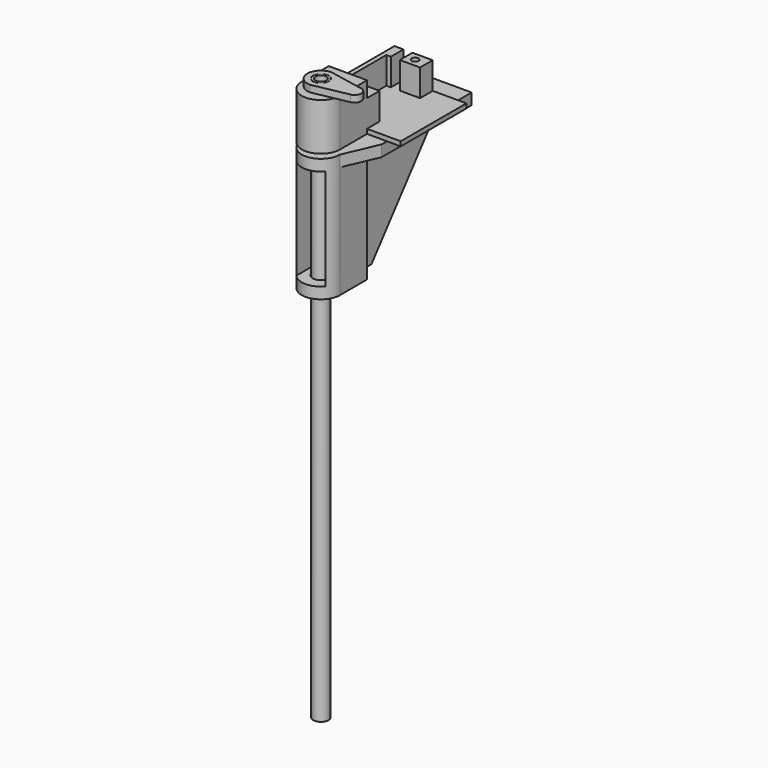
from build123d import *

# Parameters (mm, degrees)
SKETCH_R          = 1.55
PAD_DEPTH         = 12
SKETCH001_W       = 32
SKETCH001_H       = 36.5
PAD001_DEPTH      = 2
SKETCH002_W       = 4
SKETCH002_H       = 7
POCKET_DEPTH      = 12
SKETCH004_R       = 4
PAD002_DEPTH      = 19
PAD002_DEPTH_BACK = 2
SKETCH005_R       = 3.4
SKETCH005_R_2     = 2.4
PAD003_DEPTH      = 250
SKETCH006_R       = 3.5
PAD004_DEPTH      = 3
SKETCH007_R       = 3.65
PAD005_DEPTH      = 55
SKETCH008_R       = 1.5
SKETCH008_R_2     = 3.7
PAD006_DEPTH      = 5
PAD007_DEPTH      = 2.5
SKETCH010_W       = 40
SKETCH010_H       = 45
POCKET001_DEPTH   = 6.5
CHAMFER_SIZE      = 5.99


with BuildPart() as body:
    # Sketch → Pad (new body)
    with BuildSketch(Plane.XY):
        Polygon((0, 0), (17, 0), (17, 7), (2, 7), (2, 29.5), (17, 29.5), (17, 36.5), (0, 36.5), align=None)
        with Locations((12, 33)):
            Circle(SKETCH_R, mode=Mode.SUBTRACT)
        with Locations((12, 3.5)):
            Circle(SKETCH_R, mode=Mode.SUBTRACT)
    extrude(amount=PAD_DEPTH)

    # Sketch001 → Pad001 (join)
    with BuildSketch(Plane.XY):
        with Locations((16, 18.25)):
            Rectangle(SKETCH001_W, SKETCH001_H)
    extrude(amount=-PAD001_DEPTH)

    # Sketch002 (on DatumPlane) → Pocket (cut)
    with BuildSketch(Plane.XY.offset(12)):
        with Locations((6, 33)):
            Rectangle(SKETCH002_W, SKETCH002_H)
    extrude(amount=-POCKET_DEPTH, mode=Mode.SUBTRACT)

    # Sketch004 → Pad002 (join, two sides)
    with BuildSketch(Plane.XY) as pad002_sk:
        with BuildLine():
            ThreePointArc((0, -15), (8.5, -23.5), (17, -15))
            Line((17, -15), (17, 0))
            Line((17, 0), (0, 0))
            Line((0, 0), (0, -15))
        make_face()
        with Locations((8.5, -15)):
            Circle(SKETCH004_R, mode=Mode.SUBTRACT)
    extrude(amount=PAD002_DEPTH)
    extrude(pad002_sk.sketch, amount=-PAD002_DEPTH_BACK)


with BuildPart() as obj1:
    # Sketch005 → Pad003 (new body)
    with BuildSketch(Plane.XY):
        Circle(SKETCH005_R)
        Circle(SKETCH005_R_2, mode=Mode.SUBTRACT)
    extrude(amount=PAD003_DEPTH)


with BuildPart() as obj1_1:
    # Body001 placement: moved
    add(obj1.part.moved(Location((8.5, -15, -227))))


with BuildPart() as obj2:
    # Sketch006 → Pad004 (new body)
    with BuildSketch(Plane.XY):
        with BuildLine():
            ThreePointArc((0, 6), (-6, 0), (0, -6))
            Line((0, -6), (15.577552, -2.943881))
            ThreePointArc((15.577552, -2.943881), (18, 0), (15.577552, 2.943881))
            Line((0, 6), (15.577552, 2.943881))
        make_face()
        Circle(SKETCH006_R, mode=Mode.SUBTRACT)
    extrude(amount=PAD004_DEPTH)


with BuildPart() as obj2_1:
    # Body002 placement: moved
    add(obj2.part.moved(Location((8.5, -15, 20))))


with BuildPart() as obj3:
    # Sketch007 → Pad005 (new body)
    with BuildSketch(Plane.XY):
        with BuildLine():
            ThreePointArc((0, -15), (8.5, -23.5), (17, -15))
            Line((17, 0), (17, -15))
            Line((0, 0), (17, 0))
            Line((0, -15), (0, 0))
        make_face()
        with Locations((8.5, -15)):
            Circle(SKETCH007_R, mode=Mode.SUBTRACT)
    extrude(amount=-PAD005_DEPTH)

    # Sketch008 → Pad006 (join)
    with BuildSketch(Plane.XY):
        with BuildLine():
            Line((23.5, 0), (23.5, 50))
            Line((23.5, 50), (-6.5, 50))
            Line((-6.5, 50), (-6.5, 0))
            Line((0, -15), (-6.5, 0))
            ThreePointArc((0, -15), (8.5, -23.5), (17, -15))
            Line((17, -15), (23.5, 0))
        make_face()
        with Locations((17.5, 12)):
            Circle(SKETCH008_R, mode=Mode.SUBTRACT)
        with Locations((17.5, 38)):
            Circle(SKETCH008_R, mode=Mode.SUBTRACT)
        with Locations((-1.694422, 38)):
            Circle(SKETCH008_R, mode=Mode.SUBTRACT)
        with Locations((-1.694422, 12)):
            Circle(SKETCH008_R, mode=Mode.SUBTRACT)
        with Locations((8.5, -15)):
            Circle(SKETCH008_R_2, mode=Mode.SUBTRACT)
    extrude(amount=-PAD006_DEPTH)

    # Sketch009 (on DatumPlane) → Pad007 (join, symmetric)
    with BuildSketch(Plane(origin=(8.5, 0, 1), x_dir=(0, 1, 0), z_dir=(1, 0, 0))):
        Polygon((0, -56), (0, -6), (50, -6), (10, -56), align=None)
    extrude(amount=PAD007_DEPTH, both=True)

    # Sketch010 (on DatumPlane) → Pocket001 (cut, symmetric)
    with BuildSketch(Plane(origin=(8.5, 0, 1), x_dir=(0, 1, 0), z_dir=(1, 0, 0))):
        with Locations((-22, -28.5)):
            Rectangle(SKETCH010_W, SKETCH010_H)
    extrude(amount=POCKET001_DEPTH, both=True, mode=Mode.SUBTRACT)

    # Chamfer
    chamfer_edges = [obj3.edges().sort_by_distance(p)[0] for p in [
        (11, 0, -30),
        (6, 0, -30),
    ]]
    chamfer(chamfer_edges, length=CHAMFER_SIZE)


with BuildPart() as obj3_1:
    # Body003 placement: moved
    add(obj3.part.moved(Location((0, 0, -4))))


solid = Compound([body.part, obj1_1.part, obj2_1.part, obj3_1.part])
